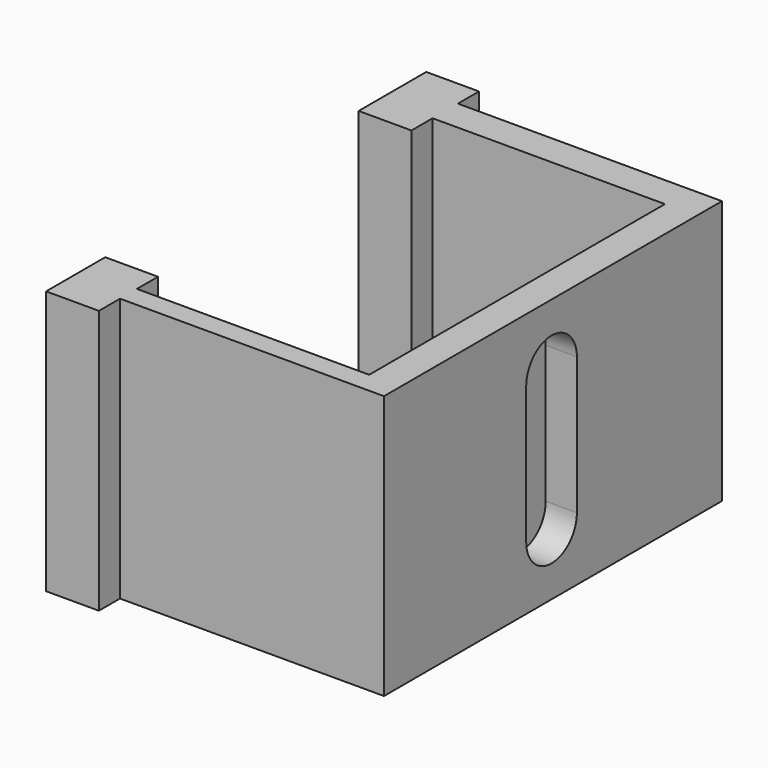
from build123d import *

# Parameters (mm, degrees)
F1_DEPTH = 25
F3_DEPTH = 25


with BuildPart() as f1:
    # F0 (on Top) → F1 (new body)
    with BuildSketch(Plane.XY):
        Polygon((-22.048956, -2.44946), (-22.048956, 0.05054), (-27.048956, 0.05054), (-27.048956, -6.949464), (-22.048956, -6.949464), (-22.048956, -4.449464), (2.951044, -4.449464), (2.951044, 35.550536), (-22.048956, 35.550536), (-22.048956, 38.050536), (-27.048956, 38.050536), (-27.048956, 30.050536), (-22.048956, 30.050536), (-22.048956, 32.550536), (-0.048956, 32.550536), (-0.048956, -2.44946), align=None)
    extrude(amount=F1_DEPTH)

    # F2 (on Right) → F3 (cut)
    with BuildSketch(Plane.YZ):
        with BuildLine():
            Line((18.382891, 6), (18.382891, 19))
            ThreePointArc((18.382891, 19), (15.382891, 22), (12.382891, 19))
            Line((12.382891, 19), (12.382891, 6))
            ThreePointArc((12.382891, 6), (15.382891, 3), (18.382891, 6))
        make_face()
    extrude(amount=F3_DEPTH, mode=Mode.SUBTRACT)


solid = f1.part
